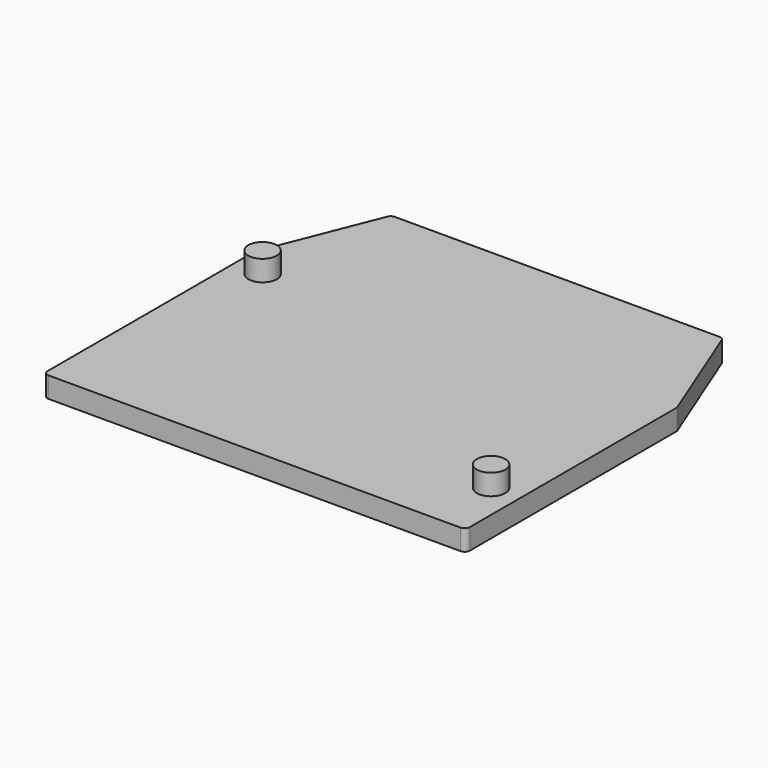
from build123d import *

# Parameters (mm, degrees)
F1_DEPTH = 1
F2_R     = 1.375
F3_DEPTH = 2
F4_R     = 0.5


with BuildPart() as f1:
    # F0 (on Top) → F1 (new body, symmetric)
    with BuildSketch(Plane.XY):
        Polygon((-20.375, 25.5), (-20.375, 0), (20.375, 0), (20.375, 25.5), (16, 36.5), (-16, 36.5), align=None)
    extrude(amount=F1_DEPTH, both=True)

    # F2 (on face) → F3 (join)
    with BuildSketch(Plane.XY.offset(1)):
        with Locations((17.625, 6.5)):
            Circle(F2_R)
        with Locations((-17.625, 23)):
            Circle(F2_R)
    extrude(amount=F3_DEPTH)

    # F4
    f4_edges = [f1.edges().sort_by_distance(p)[0] for p in [
        (20.375, 0, 0),
        (-20.375, 0, 0),
        (-16, 36.5, 0),
        (16, 36.5, 0),
    ]]
    fillet(f4_edges, radius=F4_R)


solid = f1.part
